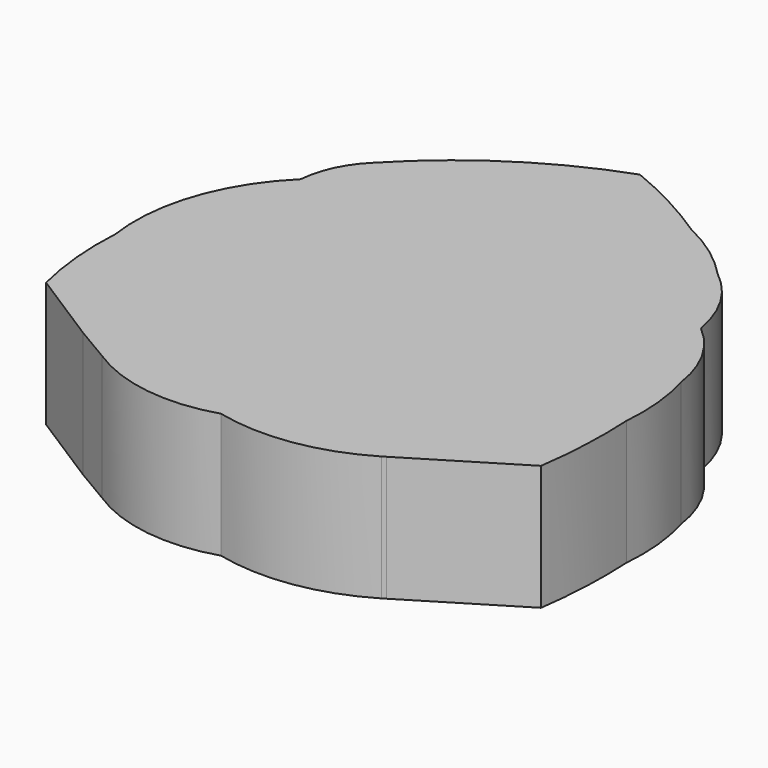
from build123d import *

# Parameters (mm, degrees)
F1_DEPTH = 3.96875


with BuildPart() as f1:
    # F0 (on Top) → F1 (new body)
    with BuildSketch(Plane.XY):
        with BuildLine():
            ThreePointArc((6.327746, 3.651619), (5.817408, 5.040304), (4.842658, 6.153296))
            ThreePointArc((4.842658, 6.153296), (3.908213, 6.97687), (2.837203, 7.612792))
            ThreePointArc((2.837203, 7.612792), (1.455709, 8.435292), (0, 9.117891))
            ThreePointArc((0, 9.117891), (-2.984964, 7.632257), (-5.546768, 5.498181))
            ThreePointArc((-5.546768, 5.498181), (-6.145468, 4.663163), (-6.411583, 3.670753))
            ThreePointArc((-6.411583, 3.670753), (-7.90396, 1.290433), (-8.157365, -1.507584))
            ThreePointArc((-8.157365, -1.507584), (-8.132204, -3.069526), (-7.873208, -4.610051))
            Line((-7.873208, -4.610051), (-5.47394, -6.140123))
            Line((-5.47394, -6.140123), (-4.332309, -6.815301))
            ThreePointArc((-4.332309, -6.815301), (-2.276891, -7.582742), (-0.090588, -7.398935))
            ThreePointArc((-0.090588, -7.398935), (2.248249, -7.495939), (4.451589, -6.705457))
            Line((4.451589, -6.705457), (4.563005, -6.637437))
            Line((4.563005, -6.637437), (7.856976, -4.62643))
            ThreePointArc((7.856976, -4.62643), (8.00735, -3.026879), (7.999748, -1.420292))
            Line((7.999748, -1.420292), (7.999748, -1.416452))
            ThreePointArc((7.999748, -1.416452), (7.99512, -0.172839), (7.76022, 1.048397))
            Line((7.76022, 1.048397), (7.759324, 1.052258))
            ThreePointArc((7.759324, 1.052258), (7.294679, 2.456117), (6.357343, 3.599845))
            Line((6.357343, 3.599845), (6.327746, 3.651619))
        make_face()
    extrude(amount=F1_DEPTH)


solid = f1.part
